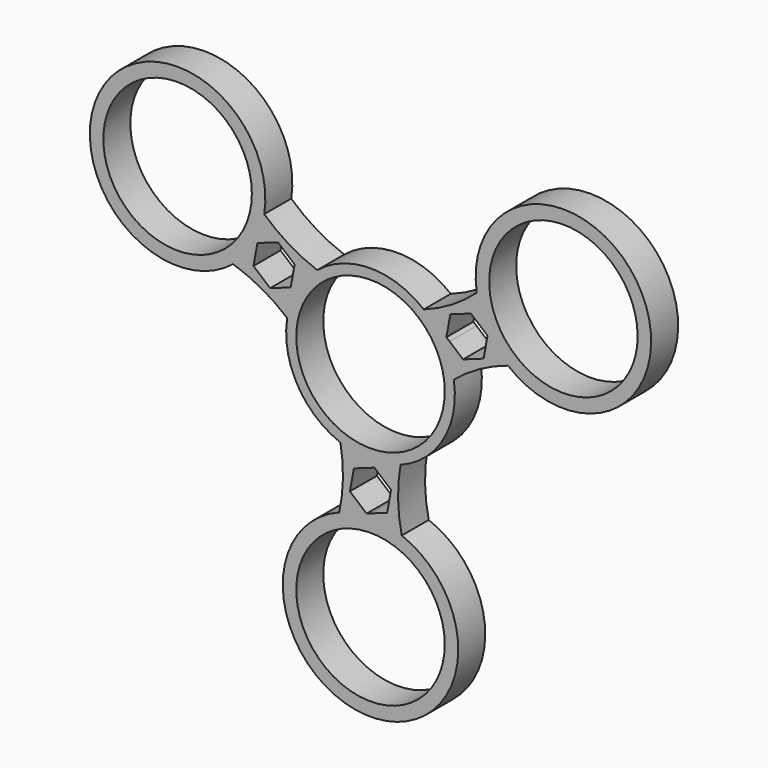
from build123d import *

# Parameters (mm, degrees)
F0_R     = 11
F1_DEPTH = 5


with BuildPart() as f1:
    # F0 (on Front) → F1 (new body)
    with BuildSketch(Plane.XZ):
        with BuildLine():
            ThreePointArc((12.3414423693, 1.9846410874), (16.1365395854, 4.5999074354), (20.3716352974, 6.4182432847))
            ThreePointArc((20.3716352974, 6.4182432847), (39.8371685741, 23), (15.744179381, 14.4332320418))
            ThreePointArc((15.744179381, 14.4332320418), (12.0519064868, 11.6746994925), (7.8894707837, 9.6956820675))
            ThreePointArc((7.8894707837, 9.6956820675), (0, 12.5), (-7.8894707837, 9.6956820675))
            ThreePointArc((-7.8894707837, 9.6956820675), (-12.0519064868, 11.6746994925), (-15.744179381, 14.4332320418))
            ThreePointArc((-15.744179381, 14.4332320418), (-39.8371685741, 23), (-20.3716352974, 6.4182432847))
            ThreePointArc((-20.3716352974, 6.4182432847), (-16.1365395854, 4.5999074354), (-12.3414423693, 1.9846410874))
            ThreePointArc((-12.3414423693, 1.9846410874), (-10.8253175473, -6.25), (-4.4519715856, -11.6803231548))
            ThreePointArc((-4.4519715856, -11.6803231548), (-4.0846330986, -16.2746069278), (-4.6274559164, -20.8514753266))
            ThreePointArc((-4.6274559164, -20.8514753266), (0, -46), (4.6274559164, -20.8514753266))
            ThreePointArc((4.6274559164, -20.8514753266), (4.0846330986, -16.2746069278), (4.4519715856, -11.6803231548))
            ThreePointArc((4.4519715856, -11.6803231548), (10.8253175473, -6.25), (12.3414423693, 1.9846410874))
        make_face()
        with Locations((0, -33)):
            Circle(F0_R, mode=Mode.SUBTRACT)
        Polygon((0.5784799381, -13.3175262717), (3.0453430646, -15.4097414578), (2.4668631266, -18.5922151861), (0, -19.4753730239), (-0.5784799381, -19.6824737283), (-3.0453430646, -17.5902585422), (-2.4668631266, -14.4077848139), (0, -13.5246269761), align=None, mode=Mode.SUBTRACT)
        Polygon((-11.8225560359, 6.1577848139), (-14.8678991005, 5.0675262717), (-17.3347622271, 7.1597414578), (-16.756282289, 10.3422151861), (-13.7109392244, 11.4324737283), (-11.2440760978, 9.3402585422), align=None, mode=Mode.SUBTRACT)
        with Locations((-28.5788383249, 16.5)):
            Circle(F0_R, mode=Mode.SUBTRACT)
        Circle(F0_R, mode=Mode.SUBTRACT)
        Polygon((17.3347622271, 9.3402585422), (16.756282289, 6.1577848139), (13.7109392244, 5.0675262717), (11.712670538, 6.7623134881), (11.2440760978, 7.1597414578), (11.8225560359, 10.3422151861), (14.8678991005, 11.4324737283), (16.8661677868, 9.7376865119), align=None, mode=Mode.SUBTRACT)
        with Locations((28.5788383249, 16.5)):
            Circle(F0_R, mode=Mode.SUBTRACT)
    extrude(amount=F1_DEPTH)


solid = f1.part
